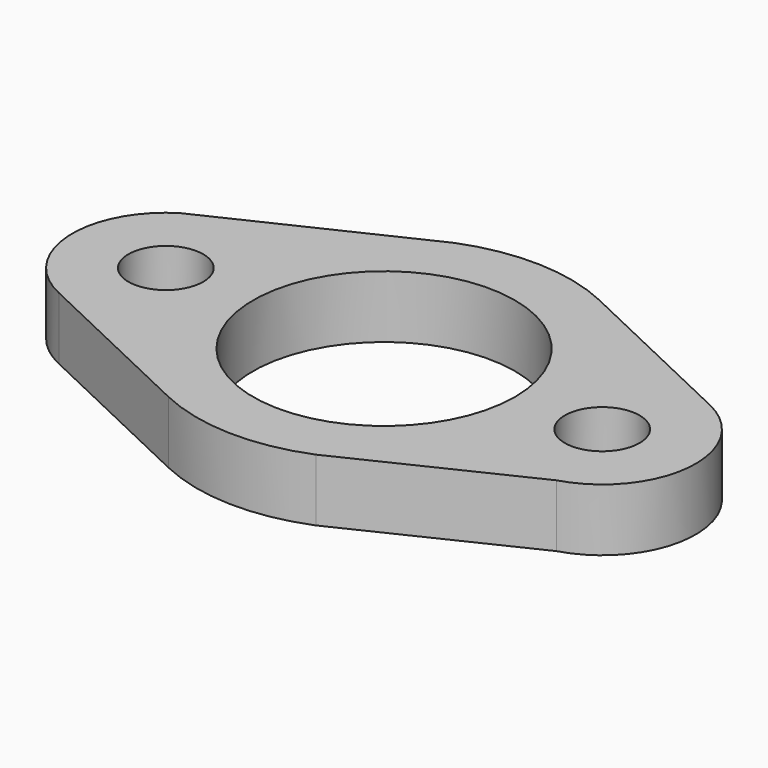
from build123d import *

# Parameters (mm, degrees)
F0_R     = 6
F0_R_2   = 21
F1_DEPTH = 10


with BuildPart() as f1:
    # F0 (on Top) → F1 (new body)
    with BuildSketch(Plane.XY):
        with BuildLine():
            Line((-41.271994, -13.625788), (-12.858001, -27.10483))
            ThreePointArc((-12.858001, -27.10483), (-0.858643, -29.98771), (11.286012, -27.796149))
            Line((11.286012, -27.796149), (39.195127, -14.40142))
            ThreePointArc((39.195127, -14.40142), (49.952353, -1.194627), (41.428532, 13.552637))
            Line((41.428532, 13.552637), (12.924047, 27.0734))
            Line((12.924047, 27.0734), (12.790003, 27.136983))
            ThreePointArc((12.790003, 27.136983), (0.947593, 29.985031), (-11.051015, 27.890412))
            Line((-11.051015, 27.890412), (-42.937387, 12.727839))
            ThreePointArc((-42.937387, 12.727839), (-49.970138, -0.946024), (-41.271994, -13.625788))
        make_face()
        with Locations((-35, 0)):
            Circle(F0_R, mode=Mode.SUBTRACT)
        Circle(F0_R_2, mode=Mode.SUBTRACT)
        with Locations((35, 0)):
            Circle(F0_R, mode=Mode.SUBTRACT)
    extrude(amount=F1_DEPTH)


solid = f1.part
